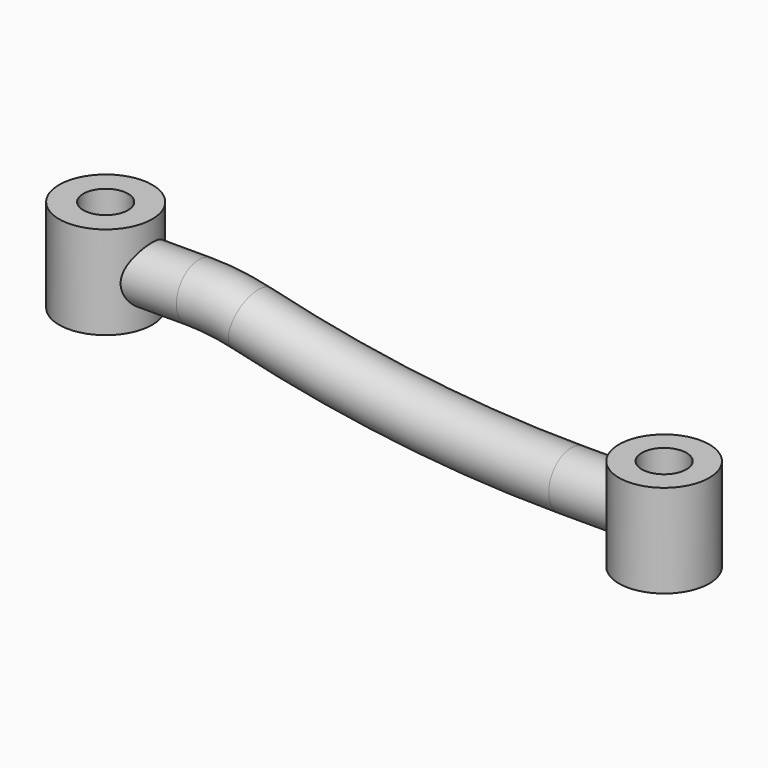
from build123d import *

# Parameters (mm, degrees)
F0_R          = 12.5
F1_DEPTH      = 25
F0_R_2        = 12.1407528782
F2_DEPTH      = 12.5
F4_R          = 7.5
F6_R          = 6
F7_DEPTH      = 12.5010001
F7_DEPTH_BACK = 25.0010001


with BuildPart() as f1:
    # F0 (on Top) → F1 (new body)
    with BuildSketch(Plane.XY):
        Circle(F0_R)
    extrude(amount=F1_DEPTH)



with BuildPart() as f2:
    # F0 (on Top) → F2 (new body, symmetric)
    with BuildSketch(Plane.XY):
        with Locations((150, 0)):
            Circle(F0_R_2)
    extrude(amount=F2_DEPTH, both=True)


with BuildPart() as f1_1:
    add(f1.part)

    add(f2.part)  # F5 merges F2
    # F5: sweep along a path in F3
    with BuildLine(Plane.XZ) as f5_path:
        Line((0, 12), (25, 12))
        ThreePointArc((25, 12), (32.1487132371, 11.5726103092), (39.1955835962, 10.2965299685))
        ThreePointArc((39.1955835962, 10.2965299685), (81.789999989, 2.5833332421), (125, 0))
        Line((125, 0), (150, 0))
    # F4 (on Right) → F5 (sweep)
    with BuildSketch(Plane.YZ):
        with Locations((0, 12)):
            Circle(F4_R)
    sweep(path=f5_path.line)

    # F6 (on Top) → F7 (cut, two sides)
    with BuildSketch(Plane.XY) as f7_sk:
        Circle(F6_R)
        with Locations((150, 0)):
            Circle(F6_R)
    extrude(amount=-F7_DEPTH, mode=Mode.SUBTRACT)
    extrude(f7_sk.sketch, amount=F7_DEPTH_BACK, mode=Mode.SUBTRACT)


solid = f1_1.part
